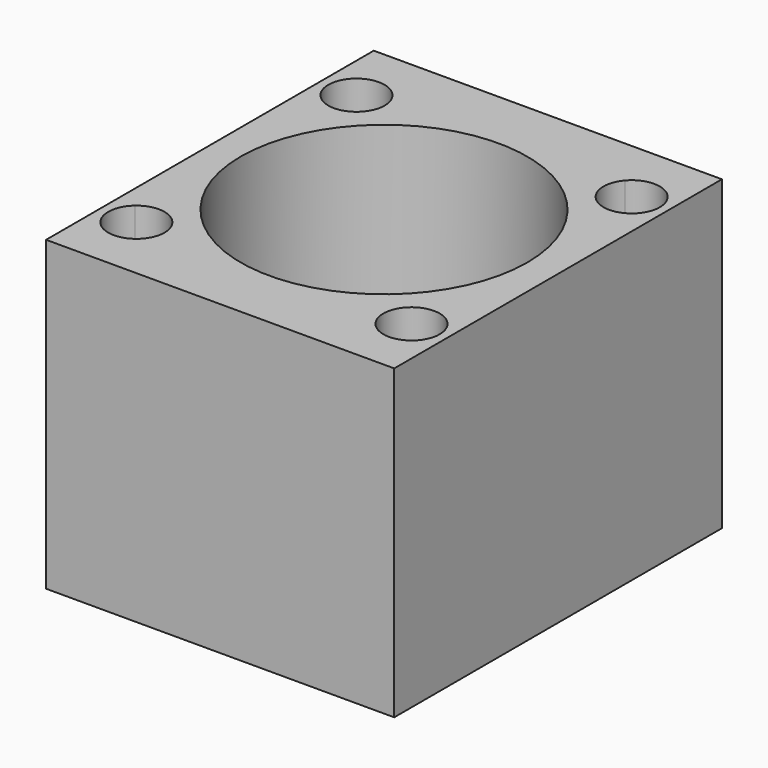
from build123d import *

# Parameters (mm, degrees)
F0_R     = 14
F1_DEPTH = 30


with BuildPart() as f1:
    # F0 (on Top) → F1 (new body)
    with BuildSketch(Plane.XY):
        with BuildLine():
            Line((-23.6665773145, 17.4999972433), (-34.3713387844, 17.4999972433))
            ThreePointArc((-34.3713387844, 17.4999972433), (-36.3151814801, 16.0646276083), (-38.104839623, 14.4410715894))
            Line((-38.104839623, 14.4410715894), (-38.104839623, 5.9852786175))
            ThreePointArc((-38.104839623, 5.9852786175), (-37.2854541079, 7.4593001752), (-36.3385899052, 8.8548575392))
            ThreePointArc((-36.3385899052, 8.8548575392), (-36.4844121138, 12.8795697341), (-32.4596999189, 12.7337475255))
            ThreePointArc((-32.4596999189, 12.7337475255), (-28.3758248379, 15.053708361), (-23.8476290358, 16.3009840854))
            ThreePointArc((-23.8476290358, 16.3009840854), (-23.8240141463, 16.910594262), (-23.6665773145, 17.4999972433))
        make_face()
        with BuildLine():
            Line((-4.104839623, -10.985284131), (-4.104839623, 5.9852786175))
            ThreePointArc((-4.104839623, 5.9852786175), (-4.924225138, 7.4593001752), (-5.8710893408, 8.8548575392))
            ThreePointArc((-5.8710893408, 8.8548575392), (-9.6143544287, 8.9904824376), (-9.7499793271, 12.7337475255))
            ThreePointArc((-9.7499793271, 12.7337475255), (-13.833854408, 15.053708361), (-18.3620502102, 16.3009840854))
            ThreePointArc((-18.3620502102, 16.3009840854), (-21.104839623, 13.7499972433), (-23.8476290358, 16.3009840854))
            ThreePointArc((-23.8476290358, 16.3009840854), (-28.3758248379, 15.053708361), (-32.4596999189, 12.7337475255))
            ThreePointArc((-32.4596999189, 12.7337475255), (-31.9627612206, 11.8947230423), (-31.7898684655, 10.9350260858))
            ThreePointArc((-31.7898684655, 10.9350260858), (-33.3961866827, 8.4341278513), (-36.3385899052, 8.8548575392))
            ThreePointArc((-36.3385899052, 8.8548575392), (-37.2854541079, 7.4593001752), (-38.104839623, 5.9852786175))
            Line((-38.104839623, 5.9852786175), (-38.104839623, -10.985284131))
            ThreePointArc((-38.104839623, -10.985284131), (-37.2854541079, -12.4593056886), (-36.3385899052, -13.8548630526))
            ThreePointArc((-36.3385899052, -13.8548630526), (-33.3961866827, -13.4341333647), (-31.7898684655, -15.9350315993))
            ThreePointArc((-31.7898684655, -15.9350315993), (-31.9627612206, -16.8947285558), (-32.4596999189, -17.7337530389))
            ThreePointArc((-32.4596999189, -17.7337530389), (-28.3758248379, -20.0537138744), (-23.8476290358, -21.3009895988))
            ThreePointArc((-23.8476290358, -21.3009895988), (-21.104839623, -18.7500027567), (-18.3620502102, -21.3009895988))
            ThreePointArc((-18.3620502102, -21.3009895988), (-13.833854408, -20.0537138744), (-9.7499793271, -17.7337530389))
            ThreePointArc((-9.7499793271, -17.7337530389), (-9.6143544287, -13.990487951), (-5.8710893408, -13.8548630526))
            ThreePointArc((-5.8710893408, -13.8548630526), (-4.924225138, -12.4593056886), (-4.104839623, -10.985284131))
        make_face()
        with Locations((-21.104839623, -2.5000027567)):
            Circle(F0_R, mode=Mode.SUBTRACT)
        with BuildLine():
            Line((-4.104839623, 5.9852786175), (-4.104839623, 14.4410715894))
            ThreePointArc((-4.104839623, 14.4410715894), (-5.8944977658, 16.0646276083), (-7.8383404616, 17.4999972433))
            Line((-7.8383404616, 17.4999972433), (-18.5431019315, 17.4999972433))
            ThreePointArc((-18.5431019315, 17.4999972433), (-18.4023150022, 17.0087807672), (-18.354839623, 16.4999972433))
            ThreePointArc((-18.354839623, 16.4999972433), (-18.356642861, 16.4004253728), (-18.3620502102, 16.3009840854))
            ThreePointArc((-18.3620502102, 16.3009840854), (-13.833854408, 15.053708361), (-9.7499793271, 12.7337475255))
            ThreePointArc((-9.7499793271, 12.7337475255), (-6.7101138239, 13.5121333307), (-4.9198107804, 10.9350260858))
            ThreePointArc((-4.9198107804, 10.9350260858), (-5.1689125459, 9.791344303), (-5.8710893408, 8.8548575392))
            ThreePointArc((-5.8710893408, 8.8548575392), (-4.924225138, 7.4593001752), (-4.104839623, 5.9852786175))
        make_face()
        with BuildLine():
            ThreePointArc((-18.3620502102, 16.3009840854), (-21.104839623, 16.4999972433), (-23.8476290358, 16.3009840854))
            ThreePointArc((-23.8476290358, 16.3009840854), (-21.104839623, 13.7499972433), (-18.3620502102, 16.3009840854))
        make_face()
        with BuildLine():
            ThreePointArc((-18.354839623, 16.4999972433), (-18.4023150022, 17.0087807672), (-18.5431019315, 17.4999972433))
            Line((-18.5431019315, 17.4999972433), (-23.6665773145, 17.4999972433))
            ThreePointArc((-23.6665773145, 17.4999972433), (-23.8240141463, 16.910594262), (-23.8476290358, 16.3009840854))
            ThreePointArc((-23.8476290358, 16.3009840854), (-21.104839623, 16.4999972433), (-18.3620502102, 16.3009840854))
            ThreePointArc((-18.3620502102, 16.3009840854), (-18.356642861, 16.4004253728), (-18.354839623, 16.4999972433))
        make_face()
        with BuildLine():
            ThreePointArc((-18.3620502102, -21.3009895988), (-21.104839623, -18.7500027567), (-23.8476290358, -21.3009895988))
            ThreePointArc((-23.8476290358, -21.3009895988), (-21.104839623, -21.5000027567), (-18.3620502102, -21.3009895988))
        make_face()
        with BuildLine():
            ThreePointArc((-38.104839623, -19.4410771028), (-36.3151814801, -21.0646331217), (-34.3713387844, -22.5000027567))
            Line((-34.3713387844, -22.5000027567), (-23.6665773145, -22.5000027567))
            ThreePointArc((-23.6665773145, -22.5000027567), (-23.8240141463, -21.9105997754), (-23.8476290358, -21.3009895988))
            ThreePointArc((-23.8476290358, -21.3009895988), (-28.3758248379, -20.0537138744), (-32.4596999189, -17.7337530389))
            ThreePointArc((-32.4596999189, -17.7337530389), (-36.4844121138, -17.8795752475), (-36.3385899052, -13.8548630526))
            ThreePointArc((-36.3385899052, -13.8548630526), (-37.2854541079, -12.4593056886), (-38.104839623, -10.985284131))
            Line((-38.104839623, -10.985284131), (-38.104839623, -19.4410771028))
        make_face()
        with BuildLine():
            ThreePointArc((-7.8383404616, -22.5000027567), (-5.8944977658, -21.0646331217), (-4.104839623, -19.4410771028))
            Line((-4.104839623, -19.4410771028), (-4.104839623, -10.985284131))
            ThreePointArc((-4.104839623, -10.985284131), (-4.924225138, -12.4593056886), (-5.8710893408, -13.8548630526))
            ThreePointArc((-5.8710893408, -13.8548630526), (-5.1689125459, -14.7913498164), (-4.9198107804, -15.9350315993))
            ThreePointArc((-4.9198107804, -15.9350315993), (-6.7101138239, -18.5121388441), (-9.7499793271, -17.7337530389))
            ThreePointArc((-9.7499793271, -17.7337530389), (-13.833854408, -20.0537138744), (-18.3620502102, -21.3009895988))
            ThreePointArc((-18.3620502102, -21.3009895988), (-18.356642861, -21.4004308862), (-18.354839623, -21.5000027567))
            ThreePointArc((-18.354839623, -21.5000027567), (-18.4023150022, -22.0087862806), (-18.5431019315, -22.5000027567))
            Line((-18.5431019315, -22.5000027567), (-7.8383404616, -22.5000027567))
        make_face()
        with BuildLine():
            Line((-4.104839623, -22.5000027567), (-4.104839623, -19.4410771028))
            ThreePointArc((-4.104839623, -19.4410771028), (-5.8944977658, -21.0646331217), (-7.8383404616, -22.5000027567))
            Line((-7.8383404616, -22.5000027567), (-4.104839623, -22.5000027567))
        make_face()
        with BuildLine():
            Line((-38.104839623, -22.5000027567), (-34.3713387844, -22.5000027567))
            ThreePointArc((-34.3713387844, -22.5000027567), (-36.3151814801, -21.0646331217), (-38.104839623, -19.4410771028))
            Line((-38.104839623, -19.4410771028), (-38.104839623, -22.5000027567))
        make_face()
        with BuildLine():
            ThreePointArc((-38.104839623, 14.4410715894), (-36.3151814801, 16.0646276083), (-34.3713387844, 17.4999972433))
            Line((-34.3713387844, 17.4999972433), (-38.104839623, 17.4999972433))
            Line((-38.104839623, 17.4999972433), (-38.104839623, 14.4410715894))
        make_face()
        with BuildLine():
            ThreePointArc((-7.8383404616, 17.4999972433), (-5.8944977658, 16.0646276083), (-4.104839623, 14.4410715894))
            Line((-4.104839623, 14.4410715894), (-4.104839623, 17.4999972433))
            Line((-4.104839623, 17.4999972433), (-7.8383404616, 17.4999972433))
        make_face()
        with BuildLine():
            Line((-23.6665773145, -22.5000027567), (-18.5431019315, -22.5000027567))
            ThreePointArc((-18.5431019315, -22.5000027567), (-18.4023150022, -22.0087862806), (-18.354839623, -21.5000027567))
            ThreePointArc((-18.354839623, -21.5000027567), (-18.356642861, -21.4004308862), (-18.3620502102, -21.3009895988))
            ThreePointArc((-18.3620502102, -21.3009895988), (-21.104839623, -21.5000027567), (-23.8476290358, -21.3009895988))
            ThreePointArc((-23.8476290358, -21.3009895988), (-23.8240141463, -21.9105997754), (-23.6665773145, -22.5000027567))
        make_face()
    extrude(amount=F1_DEPTH)


solid = f1.part
